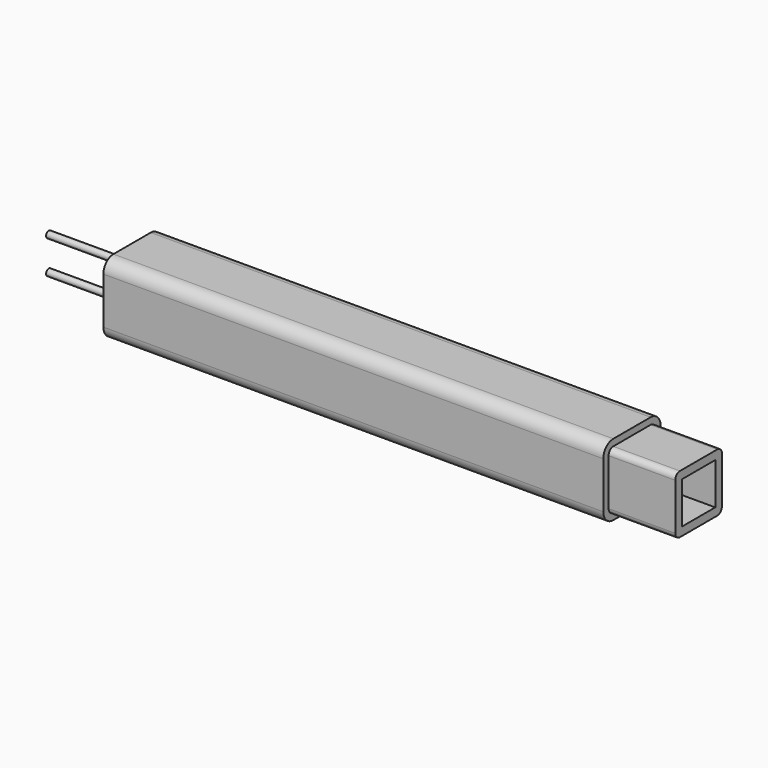
from build123d import *

# Parameters (mm, degrees)
F1_DEPTH = 60
F3_DEPTH = 8
F4_R     = 0.4
F5_DEPTH = 10
F6_W     = 5
F6_H     = 5
F7_DEPTH = 25


with BuildPart() as f1:
    # F0 (on Right) → F1 (new body)
    with BuildSketch(Plane.YZ):
        with BuildLine():
            ThreePointArc((4.3, 2.8), (3.86066, 3.86066), (2.8, 4.3))
            Line((2.8, 4.3), (-2.8, 4.3))
            ThreePointArc((-2.8, 4.3), (-3.86066, 3.86066), (-4.3, 2.8))
            Line((-4.3, 2.8), (-4.3, -2.8))
            ThreePointArc((-4.3, -2.8), (-3.86066, -3.86066), (-2.8, -4.3))
            Line((-2.8, -4.3), (2.8, -4.3))
            ThreePointArc((2.8, -4.3), (3.86066, -3.86066), (4.3, -2.8))
            Line((4.3, -2.8), (4.3, 2.8))
        make_face()
    extrude(amount=F1_DEPTH)

    # F2 (on face) → F3 (join)
    with BuildSketch(Plane.YZ.offset(60)):
        with BuildLine():
            Line((2.8, 3.5), (-2.8, 3.5))
            ThreePointArc((-2.8, 3.5), (-3.294975, 3.294975), (-3.5, 2.8))
            Line((-3.5, 2.8), (-3.5, -2.8))
            ThreePointArc((-3.5, -2.8), (-3.294975, -3.294975), (-2.8, -3.5))
            Line((-2.8, -3.5), (2.8, -3.5))
            ThreePointArc((2.8, -3.5), (3.294975, -3.294975), (3.5, -2.8))
            Line((3.5, -2.8), (3.5, 2.8))
            ThreePointArc((3.5, 2.8), (3.294975, 3.294975), (2.8, 3.5))
        make_face()
    extrude(amount=F3_DEPTH)

    # F4 (on face) → F5 (join)
    with BuildSketch(Plane(origin=(0, 0, 0), x_dir=(0, -1, 0), z_dir=(-1, 0, 0))):
        with Locations((0, 2)):
            Circle(F4_R)
        with Locations((0, -2)):
            Circle(F4_R)
    extrude(amount=F5_DEPTH)

    # F6 (on face) → F7 (cut)
    with BuildSketch(Plane.YZ.offset(68)):
        Rectangle(F6_W, F6_H)
    extrude(amount=-F7_DEPTH, mode=Mode.SUBTRACT)


solid = f1.part
